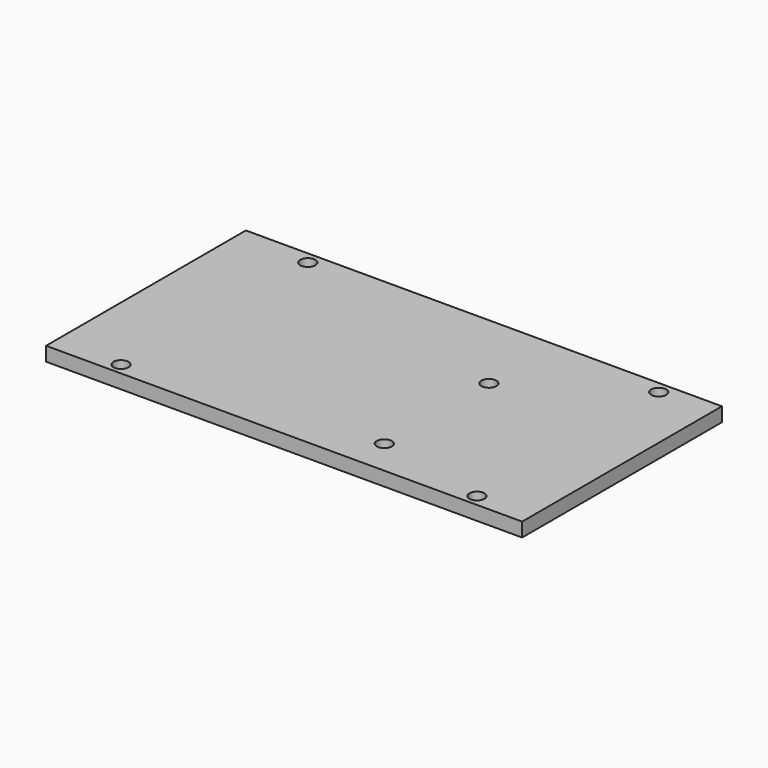
from build123d import *

# Parameters (mm, degrees)
F0_W     = 101.6
F0_H     = 53.3
F0_R     = 1.6
F1_DEPTH = 3


with BuildPart() as f1:
    # F0 (on Top) → F1 (new body)
    with BuildSketch(Plane.XY):
        with Locations((5.100797, 2.648806)):
            Rectangle(F0_W, F0_H)
        with Locations((-31.699203, -21.501194)):
            Circle(F0_R, mode=Mode.SUBTRACT)
        with Locations((20.400797, -16.401194)):
            Circle(F0_R, mode=Mode.SUBTRACT)
        with Locations((44.261612, -21.501194)):
            Circle(F0_R, mode=Mode.SUBTRACT)
        with Locations((-30.399203, 26.698806)):
            Circle(F0_R, mode=Mode.SUBTRACT)
        with Locations((20.400797, 11.498806)):
            Circle(F0_R, mode=Mode.SUBTRACT)
        with Locations((44.500797, 26.698806)):
            Circle(F0_R, mode=Mode.SUBTRACT)
    extrude(amount=F1_DEPTH)


solid = f1.part
